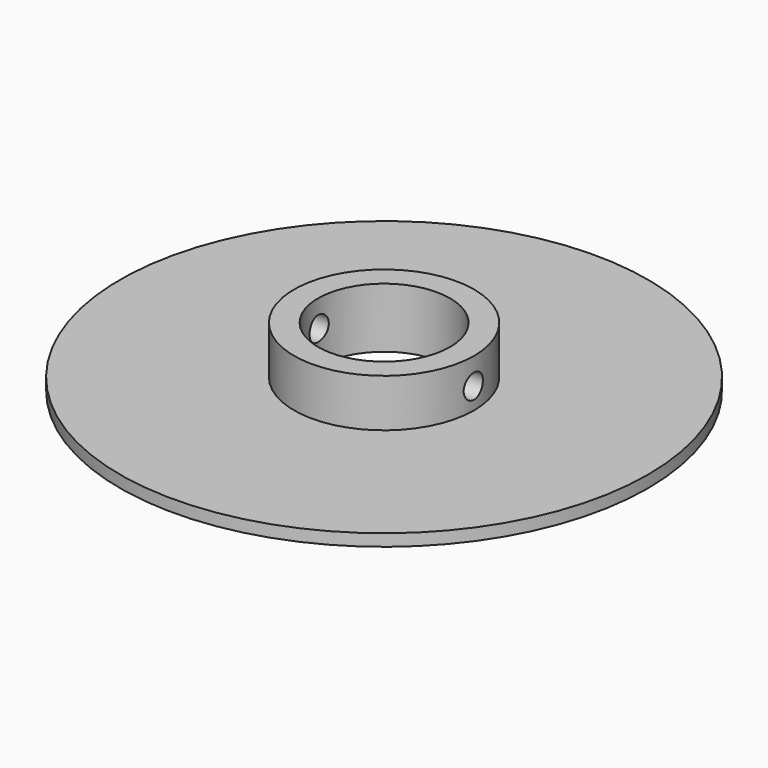
from build123d import *

# Parameters (mm, degrees)
F0_R     = 15
F0_R_2   = 11
F1_DEPTH = 10
F0_R_3   = 44
F2_DEPTH = 2
F3_R     = 2
F4_DEPTH = 25


with BuildPart() as f1:
    # F0 (on Top) → F1 (new body)
    with BuildSketch(Plane.XY):
        Circle(F0_R)
        Circle(F0_R_2, mode=Mode.SUBTRACT)
    extrude(amount=F1_DEPTH)

    # F0 (on Top) → F2 (join)
    with BuildSketch(Plane.XY):
        Circle(F0_R_3)
        Circle(F0_R, mode=Mode.SUBTRACT)
    extrude(amount=F2_DEPTH)

    # F3 (on Right) → F4 (cut, symmetric)
    with BuildSketch(Plane.YZ):
        with Locations((0, 5.560728)):
            Circle(F3_R)
    extrude(amount=F4_DEPTH, both=True, mode=Mode.SUBTRACT)


solid = f1.part
